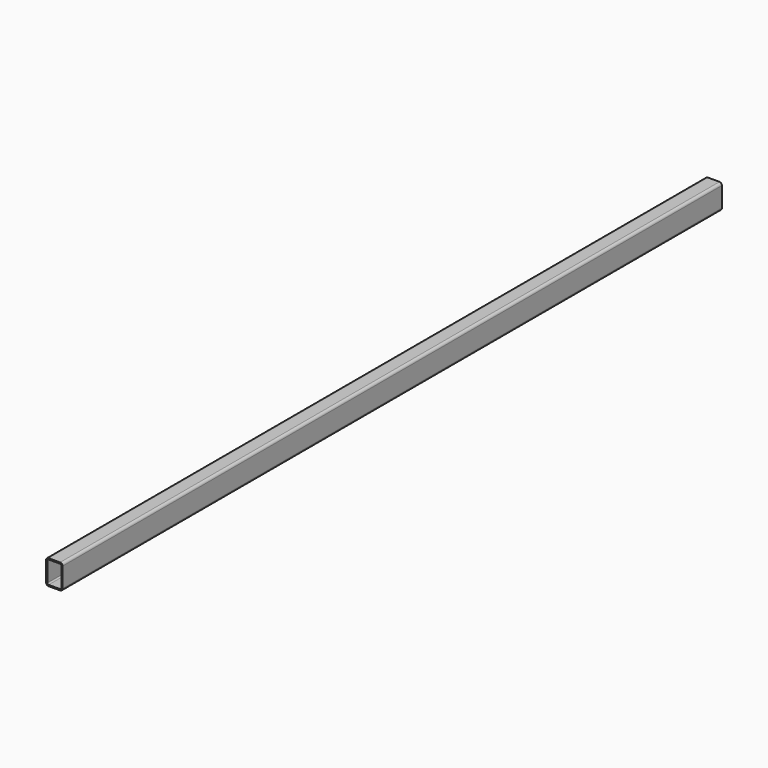
from build123d import *

# Parameters (mm, degrees)
F1_DEPTH = 2000


with BuildPart() as f1:
    # F0 (on Front) → F1 (new body)
    with BuildSketch(Plane.XZ):
        with BuildLine():
            Line((14, 30), (-14, 30))
            ThreePointArc((-14, 30), (-18.242641, 28.242641), (-20, 24))
            Line((-20, 24), (-20, -24))
            ThreePointArc((-20, -24), (-18.242641, -28.242641), (-14, -30))
            Line((-14, -30), (14, -30))
            ThreePointArc((14, -30), (18.242641, -28.242641), (20, -24))
            Line((20, -24), (20, 24))
            ThreePointArc((20, 24), (18.242641, 28.242641), (14, 30))
        make_face()
        with BuildLine():
            Line((-17, -24), (-17, 24))
            ThreePointArc((-17, 24), (-16.12132, 26.12132), (-14, 27))
            Line((-14, 27), (14, 27))
            ThreePointArc((14, 27), (16.12132, 26.12132), (17, 24))
            Line((17, 24), (17, -24))
            ThreePointArc((17, -24), (16.12132, -26.12132), (14, -27))
            Line((14, -27), (-14, -27))
            ThreePointArc((-14, -27), (-16.12132, -26.12132), (-17, -24))
        make_face(mode=Mode.SUBTRACT)
    extrude(amount=F1_DEPTH)


solid = f1.part
